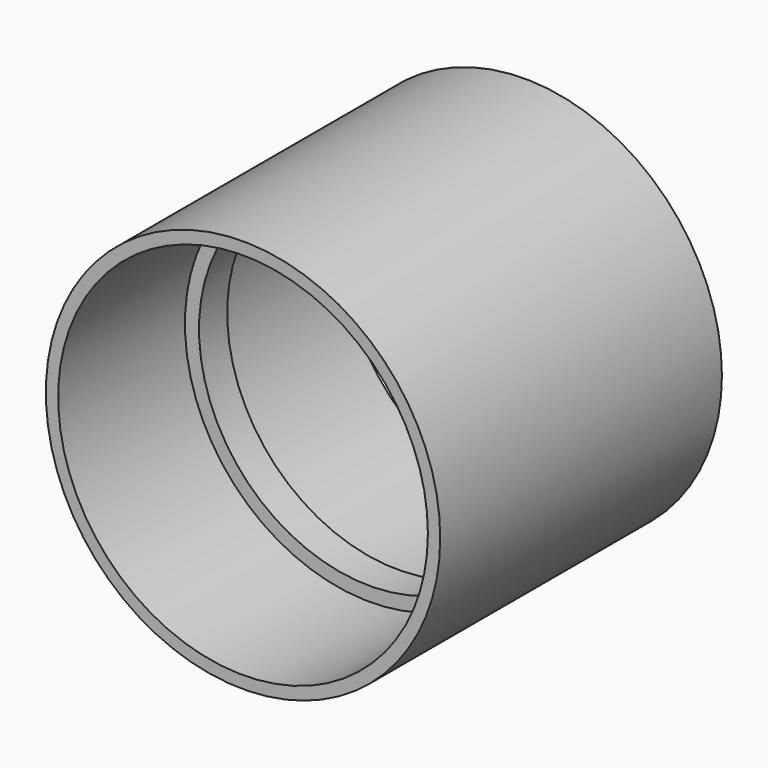
from build123d import *

# Parameters (mm, degrees)
F0_R     = 56
F0_R_2   = 52.5
F1_DEPTH = 45
F2_R     = 56
F2_R_2   = 52.5
F2_R_3   = 48.5
F3_DEPTH = 10
F4_R     = 56
F4_R_2   = 52.5
F5_DEPTH = 45


with BuildPart() as f1:
    # F0 (on Front) → F1 (new body)
    with BuildSketch(Plane.XZ):
        Circle(F0_R)
        Circle(F0_R_2, mode=Mode.SUBTRACT)
    extrude(amount=F1_DEPTH)

    # F2 (on face) → F3 (join)
    with BuildSketch(Plane.XZ.offset(45)):
        Circle(F2_R)
        Circle(F2_R_2, mode=Mode.SUBTRACT)
        Circle(F2_R_2)
        Circle(F2_R_3, mode=Mode.SUBTRACT)
    extrude(amount=F3_DEPTH)

    # F4 (on face) → F5 (join)
    with BuildSketch(Plane.XZ.offset(55)):
        Circle(F4_R)
        Circle(F4_R_2, mode=Mode.SUBTRACT)
    extrude(amount=F5_DEPTH)


solid = f1.part
